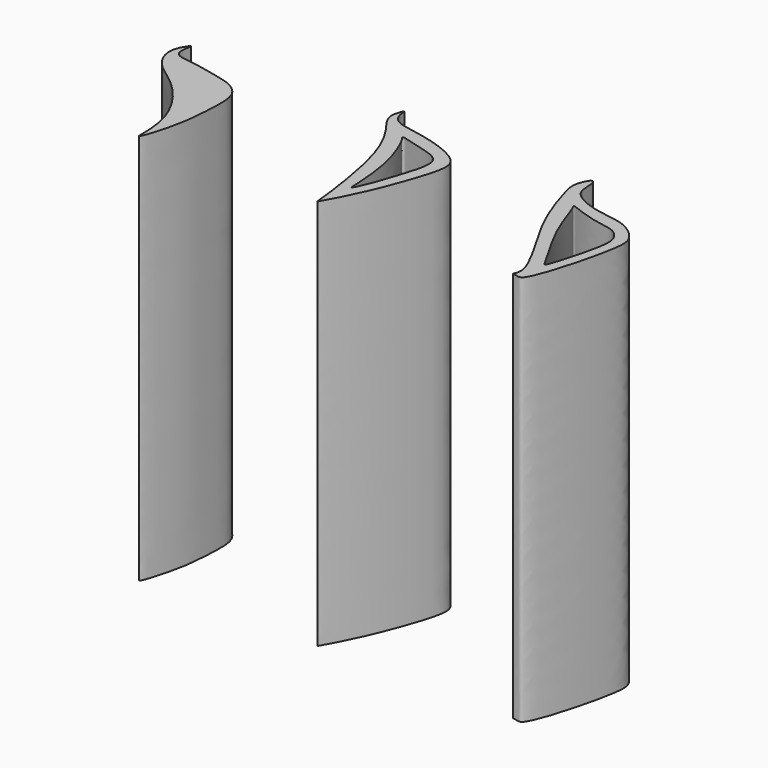
from build123d import *

# Parameters (mm, degrees)
F1_DEPTH = 100


with BuildPart() as f1:
    # F0 (on Top) → F1 (new body)
    with BuildSketch(Plane.XY):
        with BuildLine():
            add(Edge.make_bspline(
                [(0, 0), (0.0220101299, 0.4857303449), (-2.5674188334, 25.1942626515), (-9.7479273134, 33.9856081831), (-11.2052236529, 36.3227190797), (-11.924048401, 38.59109294), (-10.8819981409, 41.0157029875), (-10.8573670955, 41.1199697371), (-10.6387124257, 41.2087350716), (-10.5263702368, 40.9729081043), (-10.7032594834, 40.6141578542), (-10.1259905876, 36.7722414227), (-4.2441971213, 35.688870988), (2.2705638693, 34.4806025537), (8.8426940018, 31.7332348337), (11.1396822108, 28.7045113238), (10.3319692356, 23.750534121), (7.2765855558, 15.002916791), (4.1598259583, 7.3395604858), (0.2731736024, 0.0672817239), (0.0303631482, -0.0492734711), (-0.0049706716, -0.0192422505), (-0.0006569844, -0.014498654), (0, 0)],
                knots=[0, 0, 0, 0, 0.1294209635, 0.223966615, 0.264072556, 0.3051968719, 0.3462118357, 0.3543279661, 0.3655283641, 0.3768622607, 0.3924683569, 0.4390885141, 0.5013258881, 0.5723751111, 0.6424174309, 0.69063205, 0.7477493092, 0.8282592729, 0.9111374476, 0.9829965971, 0.9917084188, 0.99613689, 1, 1, 1, 1], degree=3))
        make_face()
        with BuildLine():
            add(Edge.make_bspline(
                [(-3.8216214161, 31.8280160427), (-3.2122038891, 31.0744791758), (1.1390594139, 22.765481776), (1.4864410549, 9.405513691), (1.4621615491, 9.336628106), (1.5393073405, 8.3652979649), (3.6628024401, 12.7690882877), (5.9720432984, 20.180992146), (8.6966532663, 29.0762173691), (1.7225991853, 30.7882600492), (-3.0188300853, 32.1884453794), (-3.7597479385, 32.3034710179), (-4.0386577102, 32.0264507955), (-3.9192060591, 31.9486781879), (-3.8216214161, 31.8280160427)],
                knots=[0, 0, 0, 0, 0.1474747972, 0.3124405265, 0.3269432859, 0.3537863324, 0.4374875705, 0.5767984619, 0.703294672, 0.8155424913, 0.9180260418, 0.9534120744, 0.976385196, 1, 1, 1, 1], degree=3))
        make_face(mode=Mode.SUBTRACT)
    extrude(amount=F1_DEPTH)


with BuildPart() as f1b:
    # F0 (on Top) → F1, piece 2 (new body)
    with BuildSketch(Plane.XY):
        with BuildLine():
            add(Edge.make_bspline(
                [(50.0491224229, 0), (50.1421497727, 0.1968340012), (51.8734744689, 3.3054363981), (40.6296520416, 19.4624702511), (36.5552581591, 32.4521344261), (34.9625635324, 37.7000932643), (37.0086017772, 41.1961183268), (37.1461216256, 41.0468386518), (37.7374558026, 41.2941087518), (38.2578506325, 38.8883850148), (37.9600730986, 34.7418967485), (45.9492206456, 31.2422285986), (53.8416723622, 31.1175894556), (59.0502208623, 26.5321985975), (59.7388837226, 21.4878833), (53.704987648, -1.1758368322), (51.3632907877, -0.2594005922), (50.0034226697, -0.1181185826), (50.033257494, -0.0335681651), (50.0491224229, 0)],
                knots=[0, 0, 0, 0, 0.0420948895, 0.1650631934, 0.272043557, 0.3366407208, 0.3863404178, 0.3941298422, 0.4108608791, 0.4503987859, 0.5048394561, 0.5828990792, 0.6633970163, 0.7305676326, 0.7975554611, 0.9285115117, 0.9626155204, 0.9928211173, 1, 1, 1, 1], degree=3))
        make_face()
        with BuildLine():
            add(Edge.make_bspline(
                [(41.482206434, 29.7664664686), (42.1436974888, 28.4438637061), (44.5931286241, 19.7652198819), (51.1495420271, 9.4919970889), (52.506343275, 6.4531217254), (53.3461927645, 8.4322181339), (55.2740674001, 15.0789576219), (57.1546596484, 23.3854341634), (55.1182549705, 26.0009889905), (53.1808402888, 27.4077410341), (48.3474847141, 27.8068190132), (42.2267122685, 30.0130038668), (41.4297243168, 30.4112957001), (41.1143822539, 30.3383812561), (41.3170780768, 30.0966284863), (41.482206434, 29.7664664686)],
                knots=[0, 0, 0, 0, 0.126802577, 0.2732758585, 0.3306692541, 0.3740593766, 0.4828463023, 0.5998528212, 0.6668389671, 0.7253738059, 0.8159021143, 0.9181272438, 0.9526572597, 0.9683462065, 1, 1, 1, 1], degree=3))
        make_face(mode=Mode.SUBTRACT)
    extrude(amount=F1_DEPTH)


with BuildPart() as f1c:
    # F0 (on Top) → F1, piece 3 (new body)
    with BuildSketch(Plane.XY):
        with BuildLine():
            add(Edge.make_bspline(
                [(-45.470379293, 0), (-45.4880920739, 1.0067204956), (-45.2734076235, 10.5719375966), (-54.0749095896, 22.0738386141), (-61.6123755033, 26.1202015501), (-64.1878630438, 31.9581367752), (-62.614040248, 35.3765608686), (-61.0429572715, 37.4652491178), (-62.8328611147, 31.6243153633), (-56.8777433041, 31.3984078679), (-50.149909049, 29.7856477319), (-45.5193021275, 28.8406422254), (-41.5465527294, 25.7111444105), (-41.440041465, 19.8043073497), (-41.8376337033, 14.0296335716), (-42.4521011543, 8.2800087259), (-44.726209142, 0.3731569342), (-45.4521610229, -0.3636189347), (-45.4673849862, -0.1701838936), (-45.470379293, 0)],
                knots=[0, 0, 0, 0, 0.0806380844, 0.1833815355, 0.2607327441, 0.323440219, 0.3752251666, 0.4034706566, 0.4539743435, 0.5114535247, 0.583554497, 0.6413459252, 0.6974477457, 0.7602973561, 0.8238538088, 0.8913358072, 0.9665182524, 0.9863683085, 1, 1, 1, 1], degree=3))
        make_face()
    extrude(amount=F1_DEPTH)


solid = Compound([f1.part, f1b.part, f1c.part])
